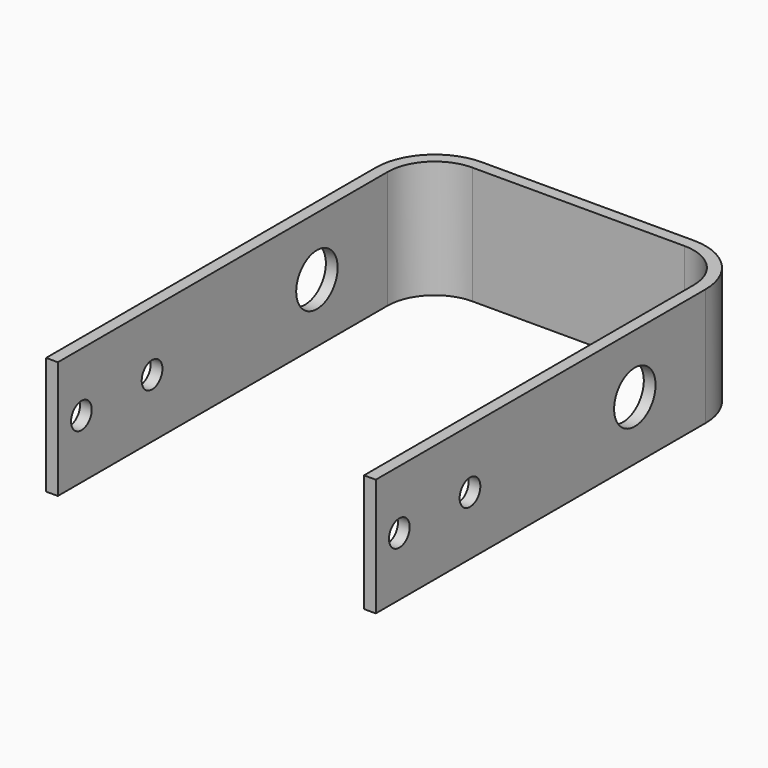
from build123d import *

# Parameters (mm, degrees)
F1_DEPTH = 20
F3_D     = 8.8
F5_D     = 4.4


with BuildPart() as f1:
    # F0 (on Top) → F1 (new body)
    with BuildSketch(Plane.XY):
        with BuildLine():
            Line((0, 70), (0, 0))
            Line((0, 0), (2, 0))
            Line((2, 0), (2, 70))
            ThreePointArc((2, 70), (4.3431457505, 75.6568542495), (10, 78))
            Line((10, 78), (46, 78))
            ThreePointArc((46, 78), (51.6568542495, 75.6568542495), (54, 70))
            Line((54, 70), (54, 0))
            Line((54, 0), (56, 0))
            Line((56, 0), (56, 70))
            ThreePointArc((56, 70), (53.0710678119, 77.0710678119), (46, 80))
            Line((46, 80), (10, 80))
            ThreePointArc((10, 80), (2.9289321881, 77.0710678119), (0, 70))
        make_face()
    extrude(amount=F1_DEPTH)

    # F3 (through all)
    with Locations(Plane.YZ.offset(56)):
        with Locations((55, 10)):
            Hole(F3_D / 2)

    # F5 (through all)
    with Locations(Plane.YZ.offset(56)):
        with Locations((5, 10), (20, 10)):
            Hole(F5_D / 2)


solid = f1.part
